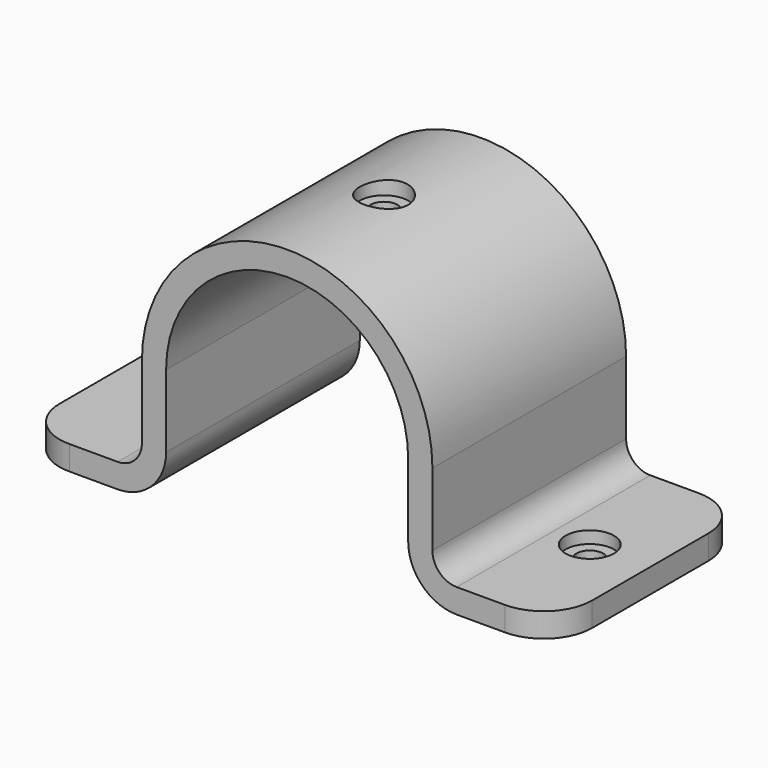
from build123d import *

# Parameters (mm, degrees)
F1_DEPTH       = 25
F5_D           = 5.5
F5_START       = 0.4196012
F5_CBORE_D     = 10
F5_CBORE_DEPTH = 2.5
F7_D           = 5.5
F7_CBORE_D     = 10
F7_CBORE_DEPTH = 2.5
F8_R           = 5
F9_R           = 10
F10_R          = 10


with BuildPart() as f1:
    # F0 (on Front) → F1 (new body, symmetric)
    with BuildSketch(Plane.XZ):
        with BuildLine():
            Line((-55, -20), (-55, -25))
            Line((-55, -25), (-25, -25))
            Line((-25, -25), (-25, 0))
            ThreePointArc((-25, 0), (0, 25), (25, 0))
            Line((25, 0), (25, -25))
            Line((25, -25), (55, -25))
            Line((55, -25), (55, -20))
            Line((55, -20), (30, -20))
            Line((30, -20), (30, 0))
            ThreePointArc((30, 0), (0, 30), (-30, 0))
            Line((-30, 0), (-30, -20))
            Line((-30, -20), (-55, -20))
        make_face()
    extrude(amount=F1_DEPTH, both=True)

    # F5 (through all)
    # its depths count from where the whole tool has entered the part; down to there all is cleared
    with Locations(Plane.XY.offset(30).offset(-F5_START)):
        with Locations((0, 0)):
            CounterBoreHole(F5_D / 2, F5_CBORE_D / 2, F5_CBORE_DEPTH)

    # F7 (through all)
    with Locations(Plane.XY.offset(-20)):
        with Locations((-42.5, 0), (42.5, 0)):
            CounterBoreHole(F7_D / 2, F7_CBORE_D / 2, F7_CBORE_DEPTH)

    # F8
    f8_edges = [f1.edges().sort_by_distance(p)[0] for p in [
        (30, 0, -20),
        (-30, 0, -20),
    ]]
    fillet(f8_edges, radius=F8_R)

    # F9
    f9_edges = [f1.edges().sort_by_distance(p)[0] for p in [
        (25, 0, -25),
        (-25, 0, -25),
    ]]
    fillet(f9_edges, radius=F9_R)

    # F10
    f10_edges = [f1.edges().sort_by_distance(p)[0] for p in [
        (-55, -25, -22.5),
        (55, -25, -22.5),
        (55, 25, -22.5),
        (-55, 25, -22.5),
    ]]
    fillet(f10_edges, radius=F10_R)


solid = f1.part
